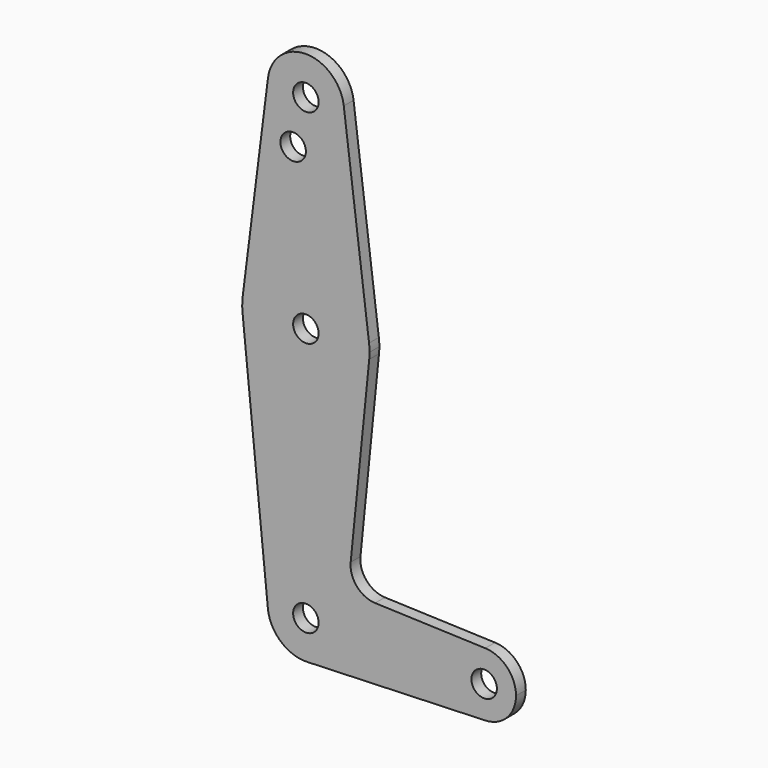
from build123d import *

# Parameters (mm, degrees)
F0_R     = 3.175
F1_DEPTH = 3.048


with BuildPart() as f1:
    # F0 (on Front) → F1 (new body)
    with BuildSketch(Plane.XZ):
        with BuildLine():
            ThreePointArc((-1.111526, 104.840077), (6.330021, 107.182665), (9.525, 114.3))
            ThreePointArc((9.525, 114.3), (9.506305, 114.896483), (9.450293, 115.490625))
            ThreePointArc((9.450293, 115.490625), (0, 123.825), (-9.450293, 115.490625))
            ThreePointArc((-9.450293, 115.490625), (-8.266381, 109.567921), (-3.758622, 105.547949))
            ThreePointArc((-3.758622, 105.547949), (-2.35478, 105.494275), (-1.111526, 104.840077))
        make_face()
        with Locations((0, 114.3)):
            Circle(F0_R, mode=Mode.SUBTRACT)
        with BuildLine():
            ThreePointArc((9.450293, 115.490625), (9.506305, 114.896483), (9.525, 114.3))
            ThreePointArc((9.525, 114.3), (6.330021, 107.182665), (-1.111526, 104.840077))
            ThreePointArc((-1.111526, 104.840077), (-0.291239, 103.755413), (0, 102.42705))
            ThreePointArc((0, 102.42705), (-5.203254, 99.984345), (-3.758622, 105.547949))
            ThreePointArc((-3.758622, 105.547949), (-8.266381, 109.567921), (-9.450293, 115.490625))
            Line((-9.450293, 115.490625), (-15.750488, 65.484375))
            ThreePointArc((-15.750488, 65.484375), (0, 79.375), (15.750488, 65.484375))
            Line((15.750488, 65.484375), (9.450293, 115.490625))
        make_face()
        with BuildLine():
            ThreePointArc((15.875, 63.5), (15.843841, 64.494139), (15.750488, 65.484375))
            ThreePointArc((15.750488, 65.484375), (0, 79.375), (-15.750488, 65.484375))
            ThreePointArc((-15.750488, 65.484375), (-15.873744, 63.699705), (-15.795426, 61.9125))
            ThreePointArc((-15.795426, 61.9125), (0, 47.625), (15.795426, 61.9125))
            ThreePointArc((15.795426, 61.9125), (15.855094, 62.705253), (15.875, 63.5))
        make_face()
        with Locations((0, 63.5)):
            Circle(F0_R, mode=Mode.SUBTRACT)
        with BuildLine():
            ThreePointArc((15.795426, 61.9125), (0, 47.625), (-15.795426, 61.9125))
            Line((-15.795426, 61.9125), (-9.477255, -0.9525))
            ThreePointArc((-9.477255, -0.9525), (-0.476848, 9.513056), (9.525, 0))
            ThreePointArc((9.525, 0), (6.854408, -6.613827), (0.340179, -9.518923))
            Line((0.340179, -9.518923), (44.733482, -7.932436))
            ThreePointArc((44.733482, -7.932436), (36.5125, 0), (44.733482, 7.932436))
            Line((44.733482, 7.932436), (17.261891, 8.914191))
            ThreePointArc((17.261891, 8.914191), (12.704064, 11.085217), (11.170507, 15.89514))
            Line((11.170507, 15.89514), (15.795426, 61.9125))
        make_face()
        with BuildLine():
            ThreePointArc((9.525, 0), (-0.476848, 9.513056), (-9.477255, -0.9525))
            ThreePointArc((-9.477255, -0.9525), (-6.262383, -7.17692), (0.340179, -9.518923))
            ThreePointArc((0.340179, -9.518923), (6.854408, -6.613827), (9.525, 0))
        make_face()
        Circle(F0_R, mode=Mode.SUBTRACT)
        with BuildLine():
            ThreePointArc((44.733482, 7.932436), (36.5125, 0), (44.733482, -7.932436))
            ThreePointArc((44.733482, -7.932436), (50.162007, -5.511523), (52.3875, 0))
            ThreePointArc((52.3875, 0), (50.162007, 5.511523), (44.733482, 7.932436))
        make_face()
        with Locations((44.45, 0)):
            Circle(F0_R, mode=Mode.SUBTRACT)
    extrude(amount=F1_DEPTH)


solid = f1.part
